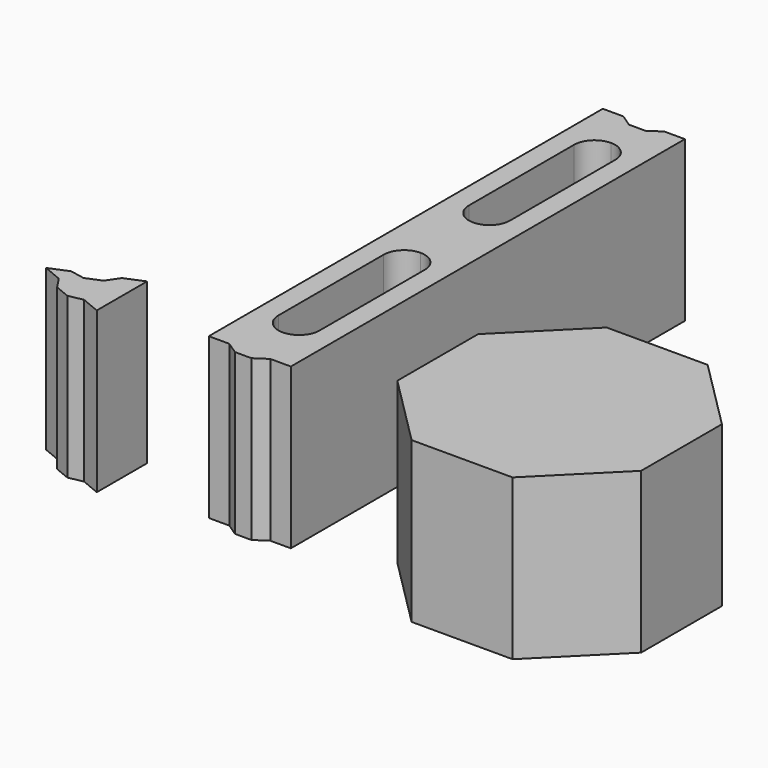
from build123d import *

# Parameters (mm, degrees)
F1_DEPTH = 195


with BuildPart() as f1:
    # F0 (on Top) → F1 (new body)
    with BuildSketch(Plane.XY):
        Polygon((0, 600), (0, 0), (24.999997, 0), (40.000001, -10), (59.999999, -10), (75.000003, 0), (100, 0), (100, 600), (75.000003, 600), (59.999999, 590), (40.000001, 590), (24.999997, 600), align=None)
        with BuildLine():
            Line((75, 235), (75, 75))
            ThreePointArc((75, 75), (67.67767, 57.32233), (50, 50))
            ThreePointArc((50, 50), (32.32233, 57.32233), (25, 75))
            Line((25, 75), (25, 235))
            ThreePointArc((25, 235), (32.32233, 252.677669), (50, 260))
            ThreePointArc((50, 260), (67.67767, 252.677669), (75, 235))
        make_face(mode=Mode.SUBTRACT)
        with BuildLine():
            ThreePointArc((50, 550), (67.67767, 542.67767), (75, 525))
            Line((75, 525), (75, 365))
            ThreePointArc((75, 365), (67.67767, 347.322331), (50, 340))
            ThreePointArc((50, 340), (32.32233, 347.322331), (25, 365))
            Line((25, 365), (25, 525))
            ThreePointArc((25, 525), (32.32233, 542.67767), (50, 550))
        make_face(mode=Mode.SUBTRACT)
        Polygon((407.442848, 250.39199), (284.411808, 250.39199), (197.415724, 163.395907), (197.415724, 40.364866), (284.411808, -46.631217), (407.442848, -46.631217), (494.438931, 40.364866), (494.438931, 163.395907), align=None)
        Polygon((-185.632758, 22.738047), (-208.729744, 13.170962), (-185.632758, 3.603878), (-175.601396, -11.375171), (-157.123807, -19.028838), (-139.438776, -15.530296), (-116.341791, -25.097381), (-116.341791, 51.439305), (-139.438776, 41.872221), (-149.470139, 26.893173), (-167.947727, 19.239505), align=None)
    extrude(amount=F1_DEPTH)


solid = f1.part
